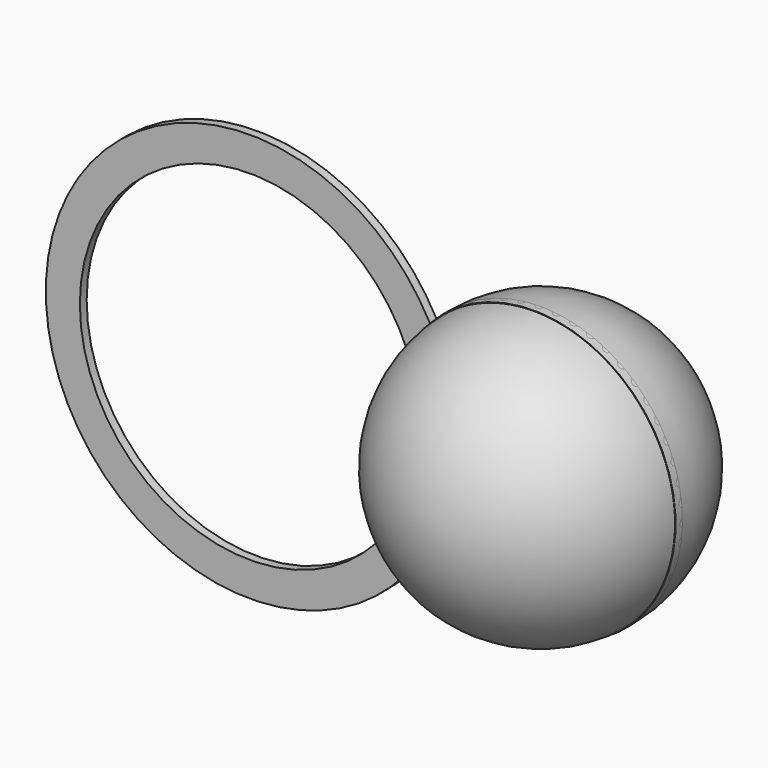
from build123d import *

# Parameters (mm, degrees)
F3_DEPTH = 1.5


with BuildPart() as f3:
    # F2 (on Front) → F3 (new body)
    with BuildSketch(Plane.XZ):
        with BuildLine():
            ThreePointArc((-22.25, 11.3990131152), (-20.4655208758, 14.358358377), (-18.29, 17.0433535432))
            ThreePointArc((-18.29, 17.0433535432), (-86, 0), (-18.29, -17.0433535432))
            ThreePointArc((-18.29, -17.0433535432), (-20.4655208758, -14.358358377), (-22.25, -11.3990131152))
            ThreePointArc((-22.25, -11.3990131152), (-80, 0), (-22.25, 11.3990131152))
        make_face()
        with BuildLine():
            ThreePointArc((-17.33, 15.1218748838), (-17.7956661292, 16.0897756336), (-18.29, 17.0433535432))
            ThreePointArc((-18.29, 17.0433535432), (-20.4655208758, 14.358358377), (-22.25, 11.3990131152))
            ThreePointArc((-22.25, 11.3990131152), (-21.7378254495, 10.0622805406), (-21.29, 8.7026375312))
            ThreePointArc((-21.29, 8.7026375312), (-19.5749266166, 12.0756883014), (-17.33, 15.1218748838))
        make_face()
        with BuildLine():
            ThreePointArc((-22.25, -11.3990131152), (-20.4655208758, -14.358358377), (-18.29, -17.0433535432))
            ThreePointArc((-18.29, -17.0433535432), (-17.7956661292, -16.0897756336), (-17.33, -15.1218748838))
            ThreePointArc((-17.33, -15.1218748838), (-19.5749266166, -12.0756883014), (-21.29, -8.7026375312))
            ThreePointArc((-21.29, -8.7026375312), (-21.7378254495, -10.0622805406), (-22.25, -11.3990131152))
        make_face()
        with BuildLine():
            ThreePointArc((-21.29, 8.7026375312), (-21.7378254495, 10.0622805406), (-22.25, 11.3990131152))
            ThreePointArc((-22.25, 11.3990131152), (-25, 0), (-22.25, -11.3990131152))
            ThreePointArc((-22.25, -11.3990131152), (-21.7378254495, -10.0622805406), (-21.29, -8.7026375312))
            ThreePointArc((-21.29, -8.7026375312), (-23, 0), (-21.29, 8.7026375312))
        make_face()
        with BuildLine():
            ThreePointArc((-18.29, -17.0433535432), (9.158329542, -23.2620936289), (25, 0))
            ThreePointArc((25, 0), (9.158329542, 23.2620936289), (-18.29, 17.0433535432))
            ThreePointArc((-18.29, 17.0433535432), (-17.7956661292, 16.0897756336), (-17.33, 15.1218748838))
            ThreePointArc((-17.33, 15.1218748838), (8.0749613002, 21.5359002598), (23, 0))
            ThreePointArc((23, 0), (8.0749613002, -21.5359002598), (-17.33, -15.1218748838))
            ThreePointArc((-17.33, -15.1218748838), (-17.7956661292, -16.0897756336), (-18.29, -17.0433535432))
        make_face()
    extrude(amount=F3_DEPTH)


with BuildPart() as f4:
    # F0 (on Right) → F4 (revolve)
    with BuildSketch(Plane.YZ):
        with BuildLine():
            Line((0, 23), (0, 25))
            ThreePointArc((0, 25), (-17.6776695297, 17.6776695297), (-25, 0))
            Line((-25, 0), (-23, 0))
            ThreePointArc((-23, 0), (-17.6190221917, 14.7841150228), (-3.9939080863, 22.6505783193))
            ThreePointArc((-3.9939080863, 22.6505783193), (-2.0045820832, 22.9124780561), (0, 23))
        make_face()
        with BuildLine():
            ThreePointArc((-3.9939080863, 22.6505783193), (-17.6190221917, 14.7841150228), (-23, 0))
            Line((-23, 0), (-21, 0))
            ThreePointArc((-21, 0), (-16.0869333055, 13.4985398034), (-3.646611731, 20.6809628133))
            Line((-3.646611731, 20.6809628133), (-3.9939080863, 22.6505783193))
        make_face()
    revolve(axis=Axis((0, 0, 0), (0, 1, 0)))


with BuildPart() as f5:
    # F0 (on Right) → F5 (revolve)
    with BuildSketch(Plane.YZ):
        with BuildLine():
            Line((0, 21), (0, 23))
            ThreePointArc((0, 23), (-2.0045820832, 22.9124780561), (-3.9939080863, 22.6505783193))
            Line((-3.9939080863, 22.6505783193), (-3.646611731, 20.6809628133))
            ThreePointArc((-3.646611731, 20.6809628133), (-1.8302705977, 20.9200886599), (0, 21))
        make_face()
        with BuildLine():
            Line((21, 0), (23, 0))
            ThreePointArc((23, 0), (16.2634559673, 16.2634559673), (0, 23))
            Line((0, 23), (0, 21))
            ThreePointArc((0, 21), (14.8492424049, 14.8492424049), (21, 0))
        make_face()
        with BuildLine():
            Line((23, 0), (25, 0))
            ThreePointArc((25, 0), (17.6776695297, 17.6776695297), (0, 25))
            Line((0, 25), (0, 23))
            ThreePointArc((0, 23), (16.2634559673, 16.2634559673), (23, 0))
        make_face()
    revolve(axis=Axis((0, 0, 0), (0, 1, 0)))


solid = Compound([f3.part, f4.part, f5.part])
